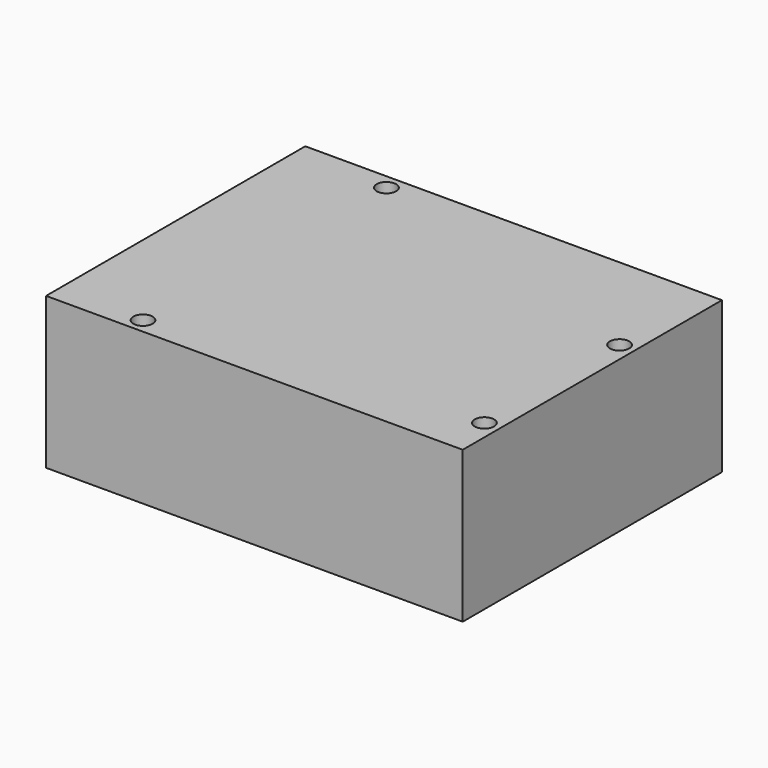
from build123d import *

# Parameters (mm, degrees)
F0_W     = 68.8
F0_H     = 53.5
F1_DEPTH = 25
F2_R     = 1.6
F3_DEPTH = 25
F4_W     = 12
F4_H     = 10.8
F5_DEPTH = 6.6
F6_W     = 8.8
F6_H     = 10.8
F7_DEPTH = 2


with BuildPart() as f1:
    # F0 (on Top) → F1 (new body)
    with BuildSketch(Plane.XY):
        Rectangle(F0_W, F0_H)
    extrude(amount=F1_DEPTH)

    # F2 (on face) → F3 (cut)
    with BuildSketch(Plane.XY.offset(25)):
        with Locations((-19, 24.25)):
            Circle(F2_R)
        with Locations((31.9, 8.75)):
            Circle(F2_R)
        with Locations((-20.4, -24.25)):
            Circle(F2_R)
        with Locations((31.9, -19.15)):
            Circle(F2_R)
    extrude(amount=-F3_DEPTH, mode=Mode.SUBTRACT)

    # F4 (on face) → F5 (join)
    with BuildSketch(Plane(origin=(-34.4, 0, 0), x_dir=(0, -1, 0), z_dir=(-1, 0, 0))):
        with Locations((-11.35, 8.7)):
            Rectangle(F4_W, F4_H)
    extrude(amount=F5_DEPTH)

    # F6 (on face) → F7 (join)
    with BuildSketch(Plane(origin=(-34.4, 0, 0), x_dir=(0, -1, 0), z_dir=(-1, 0, 0))):
        with Locations((18.15, 9.176207)):
            Rectangle(F6_W, F6_H)
    extrude(amount=F7_DEPTH)


solid = f1.part
